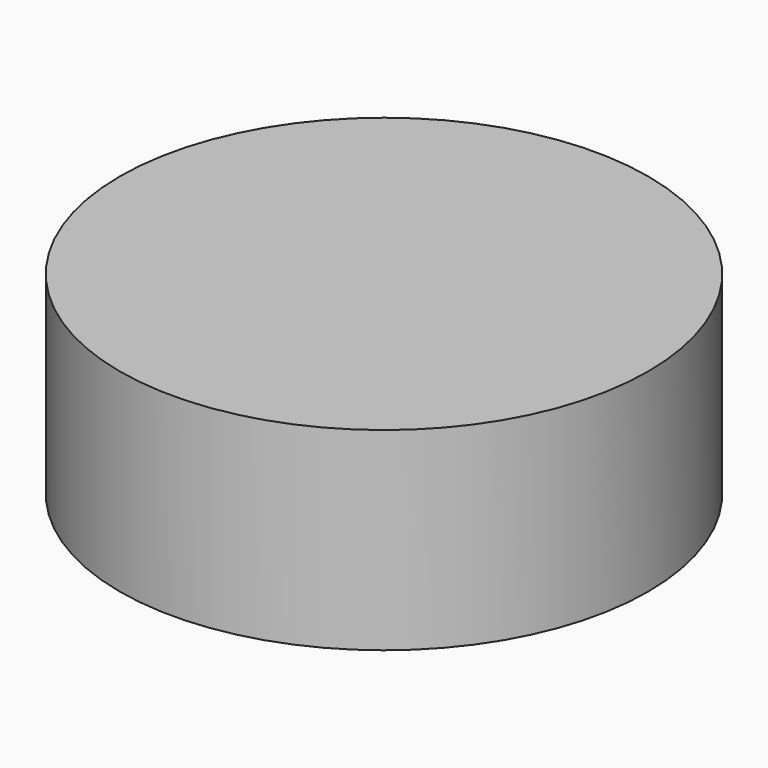
from build123d import *

# Parameters (mm, degrees)
CYLINDER_R     = 20.4343
CYLINDER_DEPTH = 15


with BuildPart() as part:
    # Cylinder → Cylinder (new body)
    with BuildSketch(Plane.XY.offset(-2.5)):
        Circle(CYLINDER_R)
    extrude(amount=CYLINDER_DEPTH)


solid = part.part
